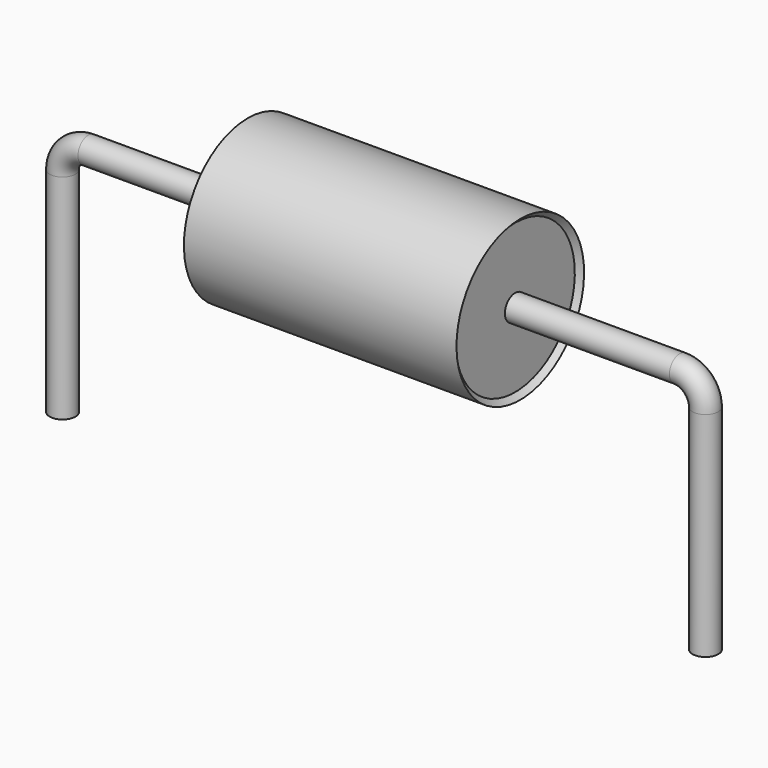
from build123d import *

# Parameters (mm, degrees)
SKETCH_R = 0.25


with BuildPart() as sweep_body:
    # Sweep: sweep along a path in Sketch001
    with BuildLine(Plane.XZ) as sweep_path:
        Line((0, -3), (0, 1.15))
        ThreePointArc((0, 1.15), (0.146443, 1.50355), (0.499991, 1.65))
        Line((0.499991, 1.65), (12, 1.65))
        ThreePointArc((12, 1.65), (12.353553, 1.503553), (12.5, 1.15))
        Line((12.5, 1.15), (12.5, -3))
    # Sketch → Sweep (sweep)
    with BuildSketch(Plane.XY.offset(-2)):
        Circle(SKETCH_R)
    sweep(path=sweep_path.line)


with BuildPart() as revolution:
    # Sketch002 → Revolution (revolve)
    with BuildSketch(Plane.XZ):
        Polygon((3.6, 3.2), (8.9, 3.2), (8.8, 3.1), (8.8, 1.65), (3.7, 1.65), (3.7, 3.1), align=None)
    revolve(axis=Axis((7.611803, 0, 1.65), (1, 0, 0)))


solid = Compound([sweep_body.part, revolution.part])
